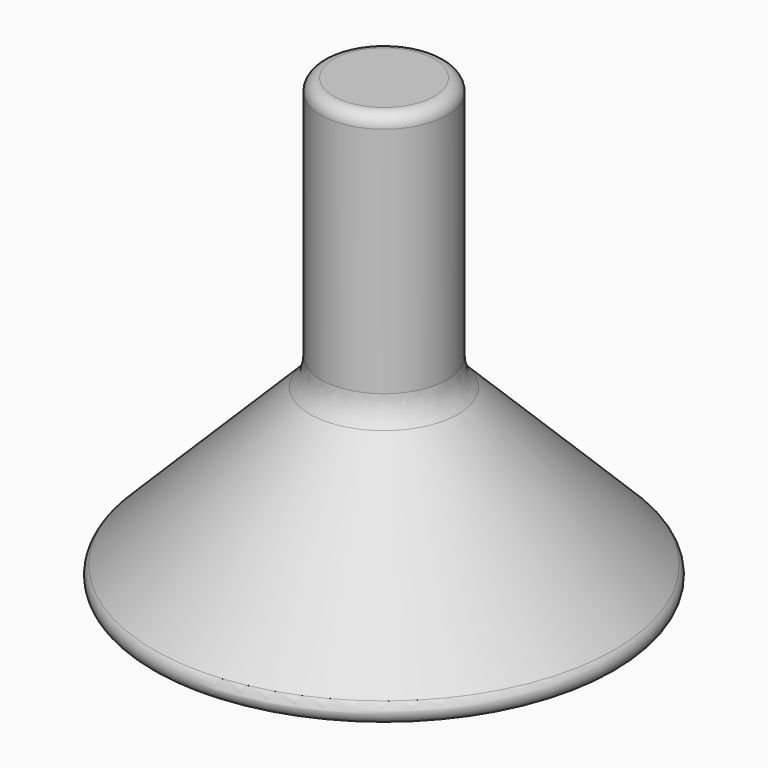
from build123d import *

# Parameters (mm, degrees)
FILLET001_R = 6
FILLET003_R = 2


with BuildPart() as part:
    # Sketch → Revolution (revolve)
    with BuildSketch(Plane.XZ):
        Polygon((18.55, 0), (18.55, 12.2), (6.05, 24.7), (0, 24.7), (0, 71.45), (10, 71.45), (10, 30), (40, 0), align=None)
    revolve(axis=Axis((0, 0, 0), (0, 0, 1)))

    # Fillet001
    fillet001_edges = [part.edges().sort_by_distance(p)[0] for p in [
        (-10, 0, 30),
    ]]
    fillet(fillet001_edges, radius=FILLET001_R)

    # Fillet003
    fillet003_edges = [part.edges().sort_by_distance(p)[0] for p in [
        (-10, 0, 71.45),
        (-18.55, 0, 0),
        (-40, 0, 0),
    ]]
    fillet(fillet003_edges, radius=FILLET003_R)


solid = part.part
